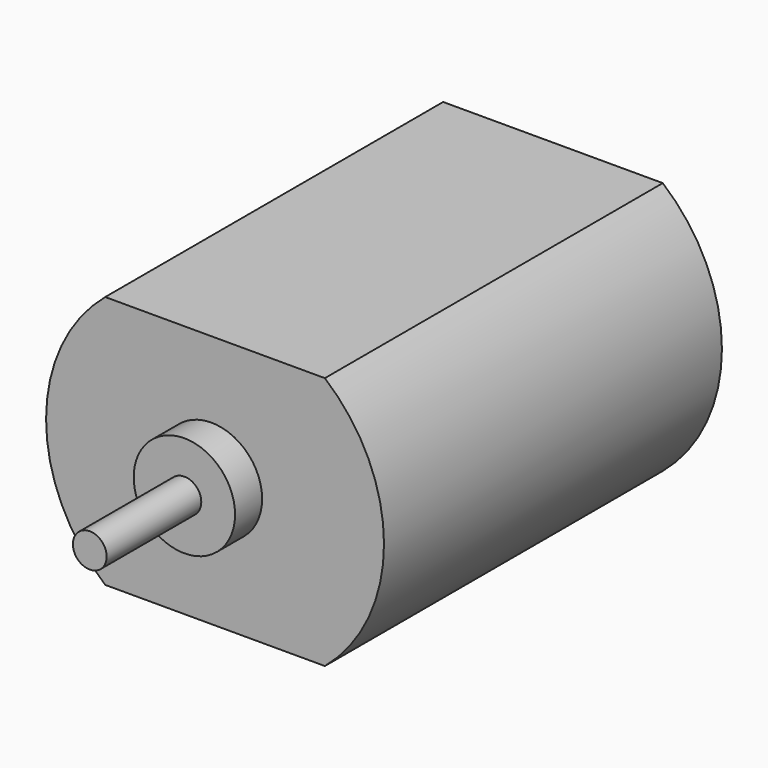
from build123d import *

# Parameters (mm, degrees)
F1_DEPTH = 25
F2_R     = 3
F2_R_2   = 1
F3_DEPTH = 2
F4_DEPTH = 9
F5_R     = 5
F6_DEPTH = 3


with BuildPart() as f1:
    # F0 (on Front) → F1 (new body)
    with BuildSketch(Plane.XZ):
        with BuildLine():
            Line((17.374176, 11.585681), (4.374176, 11.585681))
            ThreePointArc((4.374176, 11.585681), (0.874176, 4.085681), (4.374176, -3.414319))
            Line((4.374176, -3.414319), (17.374176, -3.414319))
            ThreePointArc((17.374176, -3.414319), (20.874176, 4.085681), (17.374176, 11.585681))
        make_face()
    extrude(amount=F1_DEPTH)

    # F2 (on face) → F3 (join)
    with BuildSketch(Plane.XZ.offset(25)):
        with Locations((10.65989, 4.085681)):
            Circle(F2_R)
        with Locations((10.65989, 4.085681)):
            Circle(F2_R_2, mode=Mode.SUBTRACT)
    extrude(amount=F3_DEPTH)

    # F2 (on face) → F4 (join)
    with BuildSketch(Plane.XZ.offset(25)):
        with Locations((10.65989, 4.085681)):
            Circle(F2_R_2)
    extrude(amount=F4_DEPTH)

    # F5 (on face) → F6 (join)
    with BuildSketch(Plane(origin=(0, 0, 0), x_dir=(-1, 0, 0), z_dir=(0, 1, 0))):
        with Locations((-10.65989, 4.085681)):
            Circle(F5_R)
    extrude(amount=F6_DEPTH)


solid = f1.part
